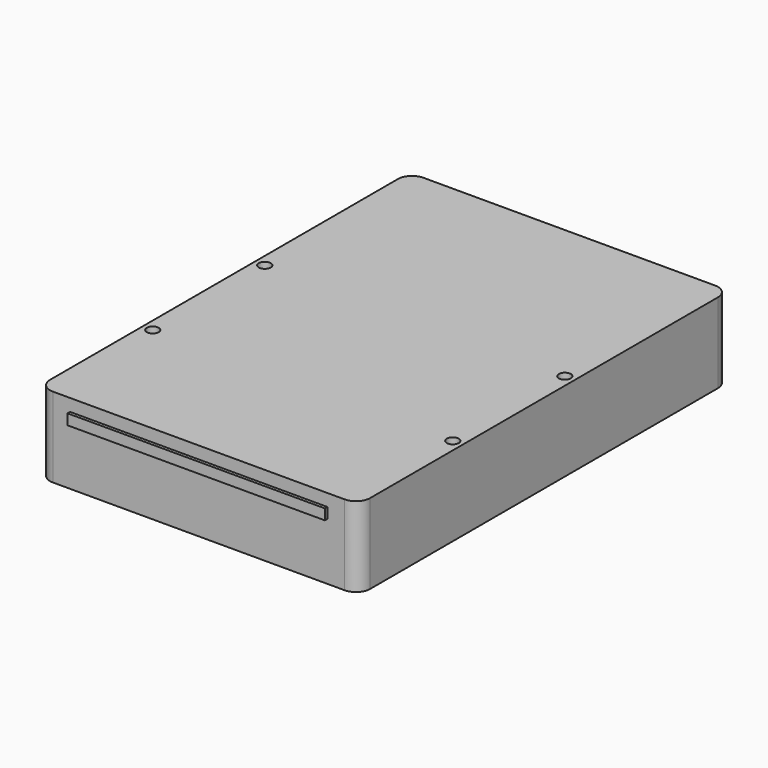
from build123d import *

# Parameters (mm, degrees)
F0_W     = 101.61
F0_H     = 147
F1_DEPTH = 25.4
F2_D     = 3.7973
F2_DEPTH = 2
F2_TIP   = 1.1408240143
F3_R     = 4.5
F5_D     = 3.7973
F5_DEPTH = 2
F5_TIP   = 1.1408240143
F6_W     = 81.7127004266
F6_H     = 3.347503487
F7_DEPTH = 1


with BuildPart() as f1:
    # F0 (on Top) → F1 (new body)
    with BuildSketch(Plane.XY):
        Rectangle(F0_W, F0_H)
    extrude(amount=-F1_DEPTH)

    # F2
    with Locations(Plane.XY):
        with Locations((47.625, -32.22), (-47.625, -32.22), (-47.625, 12.23), (47.625, 12.23)):
            Hole(F2_D / 2, depth=F2_DEPTH)
            with Locations((0, 0, -(F2_DEPTH + F2_TIP / 2))):  # 118° drill point
                Cone(0, F2_D / 2, F2_TIP, mode=Mode.SUBTRACT)

    # F3
    f3_edges = [f1.edges().sort_by_distance(p)[0] for p in [
        (50.805, 73.5, -12.7),
        (-50.805, 73.5, -12.7),
        (-50.805, -73.5, -12.7),
        (50.805, -73.5, -12.7),
    ]]
    fillet(f3_edges, radius=F3_R)

    # F5
    with Locations(Plane(origin=(-50.805, 0, 0), x_dir=(0, -1, 0), z_dir=(-1, 0, 0))):
        with Locations((45, -6.36), (3.39, -6.36), (-56.6, -6.36)):
            Hole(F5_D / 2, depth=F5_DEPTH)
            with Locations((0, 0, -(F5_DEPTH + F5_TIP / 2))):  # 118° drill point
                Cone(0, F5_D / 2, F5_TIP, mode=Mode.SUBTRACT)

    # F6 (on face) → F7 (join)
    with BuildSketch(Plane.XZ.offset(73.5)):
        with Locations((0, -5.5697378702)):
            Rectangle(F6_W, F6_H)
    extrude(amount=F7_DEPTH)


solid = f1.part
